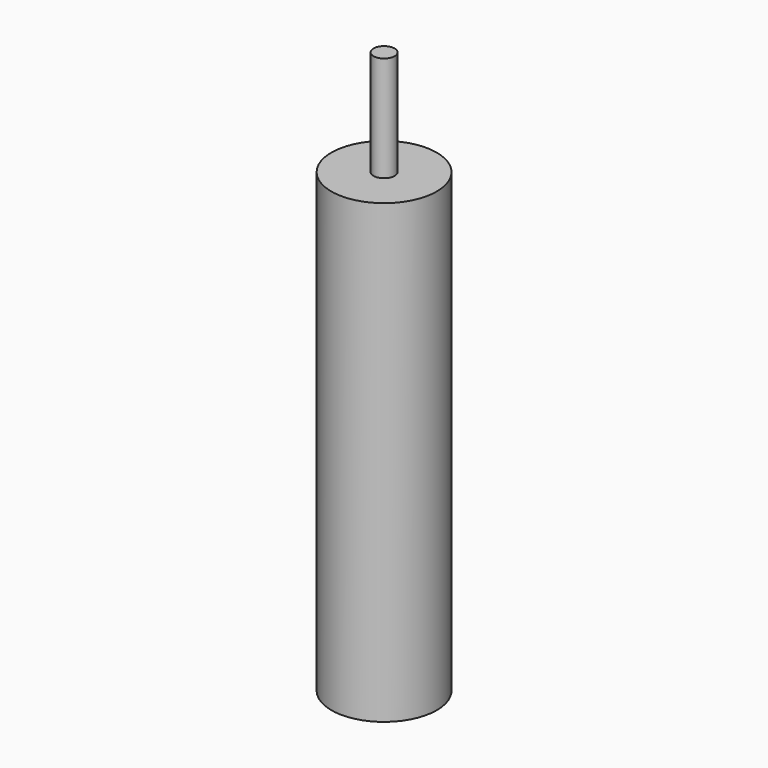
from build123d import *

# Parameters (mm, degrees)
F0_R     = 7.5
F1_DEPTH = 32.5
F2_R     = 1.5
F3_DEPTH = 15


with BuildPart() as f1:
    # F0 (on Top) → F1 (new body, symmetric)
    with BuildSketch(Plane.XY):
        Circle(F0_R)
    extrude(amount=F1_DEPTH, both=True)

    # F2 (on face) → F3 (join)
    with BuildSketch(Plane.XY.offset(32.5)):
        Circle(F2_R)
    extrude(amount=F3_DEPTH)


solid = f1.part
